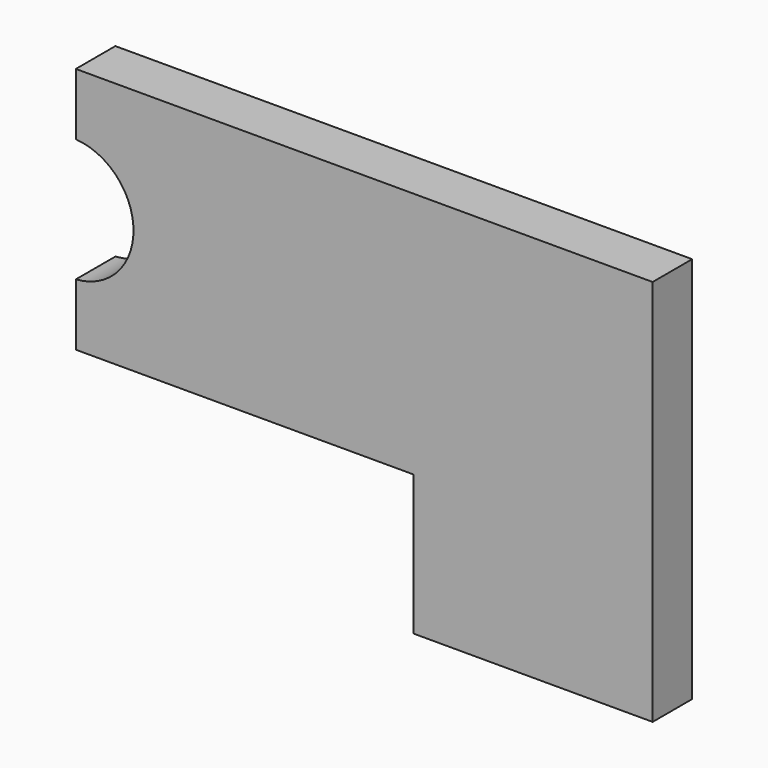
from build123d import *

# Parameters (mm, degrees)
F1_DEPTH = 12
F3_D     = 5
F3_DEPTH = 20
F3_TIP   = 1.5021515476


with BuildPart() as f1:
    # F0 (on Front) → F1 (new body)
    with BuildSketch(Plane.XZ):
        with BuildLine():
            Line((12, -47), (70, -47))
            Line((70, -47), (70, 47))
            Line((70, 47), (-70, 47))
            Line((-70, 47), (-70, 31.9666295471))
            ThreePointArc((-70, 31.9666295471), (-56, 17), (-70, 2.0333704529))
            Line((-70, 2.0333704529), (-70, -13))
            Line((-70, -13), (12, -13))
            Line((12, -13), (12, -47))
        make_face()
    extrude(amount=F1_DEPTH)

    # F3
    with Locations(Plane(origin=(-70, 0, 0), x_dir=(0, -1, 0), z_dir=(-1, 0, 0))):
        with Locations((6, 40), (6, -6)):
            Hole(F3_D / 2, depth=F3_DEPTH)
            with Locations((0, 0, -(F3_DEPTH + F3_TIP / 2))):  # 118° drill point
                Cone(0, F3_D / 2, F3_TIP, mode=Mode.SUBTRACT)


solid = f1.part
